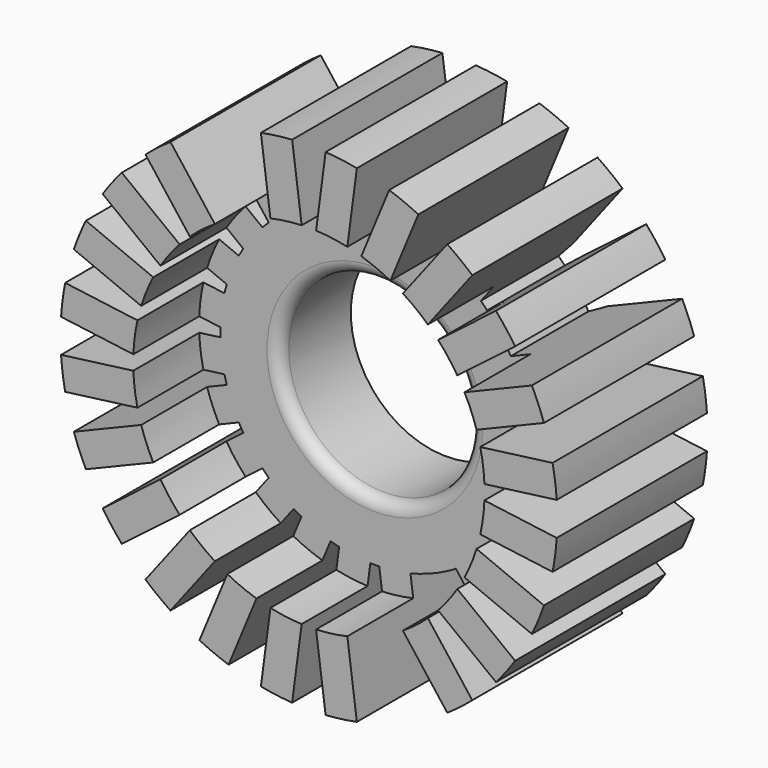
from build123d import *

# Parameters (mm, degrees)
F0_R      = 7.9
F1_DEPTH  = 15.5
F2_R      = 12.75
F3_DEPTH  = 6.8
F4_R      = 1
F7_R      = 14.5
F8_DEPTH  = 6.8
F10_DEPTH = 25


with BuildPart() as f1:
    # F0 (on Front) → F1 (new body)
    with BuildSketch(Plane.XZ):
        with BuildLine():
            ThreePointArc((12.7447268428, -0.3666574712), (12.7486816426, -0.1833476938), (12.75, 0))
            ThreePointArc((12.75, 0), (12.7486816426, 0.1833476938), (12.7447268428, 0.3666574712))
            ThreePointArc((12.7447268428, 0.3666574712), (12.6409219825, 1.6642089508), (12.4053587431, 2.9444141107))
            ThreePointArc((12.4053587431, 2.9444141107), (12.3155542852, 3.2999428251), (12.2155628699, 3.6527419524))
            ThreePointArc((12.2155628699, 3.6527419524), (11.7794640395, 4.8792137627), (11.2205859458, 6.0548287369))
            ThreePointArc((11.2205859458, 6.0548287369), (11.0418238983, 6.375), (10.8539284746, 6.689898106))
            ThreePointArc((10.8539284746, 6.689898106), (10.1152550887, 7.7617082199), (9.2711487592, 8.7526167907))
            ThreePointArc((9.2711487592, 8.7526167907), (9.0156114601, 9.0156114601), (8.7526167907, 9.2711487592))
            ThreePointArc((8.7526167907, 9.2711487592), (7.7617082199, 10.1152550887), (6.689898106, 10.8539284746))
            ThreePointArc((6.689898106, 10.8539284746), (6.375, 11.0418238983), (6.0548287369, 11.2205859458))
            ThreePointArc((6.0548287369, 11.2205859458), (4.8792137627, 11.7794640395), (3.6527419524, 12.2155628699))
            ThreePointArc((3.6527419524, 12.2155628699), (3.2999428251, 12.3155542852), (2.9444141107, 12.4053587431))
            ThreePointArc((2.9444141107, 12.4053587431), (1.6642089508, 12.6409219825), (0.3666574712, 12.7447268428))
            ThreePointArc((0.3666574712, 12.7447268428), (0, 12.75), (-0.3666574712, 12.7447268428))
            ThreePointArc((-0.3666574712, 12.7447268428), (-1.6642089508, 12.6409219825), (-2.9444141107, 12.4053587431))
            ThreePointArc((-2.9444141107, 12.4053587431), (-3.2999428251, 12.3155542852), (-3.6527419524, 12.2155628699))
            ThreePointArc((-3.6527419524, 12.2155628699), (-4.8792137627, 11.7794640395), (-6.0548287369, 11.2205859458))
            ThreePointArc((-6.0548287369, 11.2205859458), (-6.375, 11.0418238983), (-6.689898106, 10.8539284746))
            ThreePointArc((-6.689898106, 10.8539284746), (-7.7617082199, 10.1152550887), (-8.7526167907, 9.2711487592))
            ThreePointArc((-8.7526167907, 9.2711487592), (-9.0156114601, 9.0156114601), (-9.2711487592, 8.7526167907))
            ThreePointArc((-9.2711487592, 8.7526167907), (-10.1152550887, 7.7617082199), (-10.8539284746, 6.689898106))
            ThreePointArc((-10.8539284746, 6.689898106), (-11.0418238983, 6.375), (-11.2205859458, 6.0548287369))
            ThreePointArc((-11.2205859458, 6.0548287369), (-11.7794640395, 4.8792137627), (-12.2155628699, 3.6527419524))
            ThreePointArc((-12.2155628699, 3.6527419524), (-12.3155542852, 3.2999428251), (-12.4053587431, 2.9444141107))
            ThreePointArc((-12.4053587431, 2.9444141107), (-12.6409219825, 1.6642089508), (-12.7447268428, 0.3666574712))
            ThreePointArc((-12.7447268428, 0.3666574712), (-12.75, 0), (-12.7447268428, -0.3666574712))
            ThreePointArc((-12.7447268428, -0.3666574712), (-12.6409219825, -1.6642089508), (-12.4053587431, -2.9444141107))
            ThreePointArc((-12.4053587431, -2.9444141107), (-12.3155542852, -3.2999428251), (-12.2155628699, -3.6527419524))
            ThreePointArc((-12.2155628699, -3.6527419524), (-11.7794640395, -4.8792137627), (-11.2205859458, -6.0548287369))
            ThreePointArc((-11.2205859458, -6.0548287369), (-11.0418238983, -6.375), (-10.8539284746, -6.689898106))
            ThreePointArc((-10.8539284746, -6.689898106), (-10.1152550887, -7.7617082199), (-9.2711487592, -8.7526167907))
            ThreePointArc((-9.2711487592, -8.7526167907), (-9.0156114601, -9.0156114601), (-8.7526167907, -9.2711487592))
            ThreePointArc((-8.7526167907, -9.2711487592), (-7.7617082199, -10.1152550887), (-6.689898106, -10.8539284746))
            ThreePointArc((-6.689898106, -10.8539284746), (-6.375, -11.0418238983), (-6.0548287369, -11.2205859458))
            ThreePointArc((-6.0548287369, -11.2205859458), (-4.8792137627, -11.7794640395), (-3.6527419524, -12.2155628699))
            ThreePointArc((-3.6527419524, -12.2155628699), (-3.2999428251, -12.3155542852), (-2.9444141107, -12.4053587431))
            ThreePointArc((-2.9444141107, -12.4053587431), (-1.6642089508, -12.6409219825), (-0.3666574712, -12.7447268428))
            ThreePointArc((-0.3666574712, -12.7447268428), (0, -12.75), (0.3666574712, -12.7447268428))
            ThreePointArc((0.3666574712, -12.7447268428), (1.6642089508, -12.6409219825), (2.9444141107, -12.4053587431))
            ThreePointArc((2.9444141107, -12.4053587431), (3.2999428251, -12.3155542852), (3.6527419524, -12.2155628699))
            ThreePointArc((3.6527419524, -12.2155628699), (4.8792137627, -11.7794640395), (6.0548287369, -11.2205859458))
            ThreePointArc((6.0548287369, -11.2205859458), (6.375, -11.0418238983), (6.689898106, -10.8539284746))
            ThreePointArc((6.689898106, -10.8539284746), (7.7617082199, -10.1152550887), (8.7526167907, -9.2711487592))
            ThreePointArc((8.7526167907, -9.2711487592), (9.0156114601, -9.0156114601), (9.2711487592, -8.7526167907))
            ThreePointArc((9.2711487592, -8.7526167907), (10.1152550887, -7.7617082199), (10.8539284746, -6.689898106))
            ThreePointArc((10.8539284746, -6.689898106), (11.0418238983, -6.375), (11.2205859458, -6.0548287369))
            ThreePointArc((11.2205859458, -6.0548287369), (11.7794640395, -4.8792137627), (12.2155628699, -3.6527419524))
            ThreePointArc((12.2155628699, -3.6527419524), (12.3155542852, -3.2999428251), (12.4053587431, -2.9444141107))
            ThreePointArc((12.4053587431, -2.9444141107), (12.6409219825, -1.6642089508), (12.7447268428, -0.3666574712))
        make_face()
        Circle(F0_R, mode=Mode.SUBTRACT)
        with BuildLine():
            ThreePointArc((12.4053587431, 2.9444141107), (12.6409219825, 1.6642089508), (12.7447268428, 0.3666574712))
            Line((12.7447268428, 0.3666574712), (20.453395666, 1.3815229748))
            ThreePointArc((20.453395666, 1.3815229748), (20.3246196582, 2.6757869405), (20.1140275662, 3.9592796144))
            Line((20.1140275662, 3.9592796144), (12.4053587431, 2.9444141107))
        make_face()
        with BuildLine():
            Line((20.453395666, -1.3815229748), (12.7447268428, -0.3666574712))
            ThreePointArc((12.7447268428, -0.3666574712), (12.6409219825, -1.6642089508), (12.4053587431, -2.9444141107))
            Line((12.4053587431, -2.9444141107), (20.1140275662, -3.9592796144))
            ThreePointArc((20.1140275662, -3.9592796144), (20.3246196582, -2.6757869405), (20.453395666, -1.3815229748))
        make_face()
        with BuildLine():
            ThreePointArc((11.2205859458, 6.0548287369), (11.7794640395, 4.8792137627), (12.2155628699, 3.6527419524))
            Line((12.2155628699, 3.6527419524), (19.398898652, 6.6281770564))
            ThreePointArc((19.398898652, 6.6281770564), (18.9395304165, 7.8450103635), (18.4039217278, 9.0302638409))
            Line((18.4039217278, 9.0302638409), (11.2205859458, 6.0548287369))
        make_face()
        with BuildLine():
            Line((19.398898652, -6.6281770564), (12.2155628699, -3.6527419524))
            ThreePointArc((12.2155628699, -3.6527419524), (11.7794640395, -4.8792137627), (11.2205859458, -6.0548287369))
            Line((11.2205859458, -6.0548287369), (18.4039217278, -9.0302638409))
            ThreePointArc((18.4039217278, -9.0302638409), (18.9395304165, -7.8450103635), (19.398898652, -6.6281770564))
        make_face()
        with BuildLine():
            ThreePointArc((9.2711487592, 8.7526167907), (10.1152550887, 7.7617082199), (10.8539284746, 6.689898106))
            Line((10.8539284746, 6.689898106), (17.022398753, 11.4231318251))
            ThreePointArc((17.022398753, 11.4231318251), (16.263743476, 12.4796092947), (15.4396190376, 13.4858505099))
            Line((15.4396190376, 13.4858505099), (9.2711487592, 8.7526167907))
        make_face()
        with BuildLine():
            Line((17.022398753, -11.4231318251), (10.8539284746, -6.689898106))
            ThreePointArc((10.8539284746, -6.689898106), (10.1152550887, -7.7617082199), (9.2711487592, -8.7526167907))
            Line((9.2711487592, -8.7526167907), (15.4396190376, -13.4858505099))
            ThreePointArc((15.4396190376, -13.4858505099), (16.263743476, -12.4796092947), (17.022398753, -11.4231318251))
        make_face()
        with BuildLine():
            ThreePointArc((6.689898106, 10.8539284746), (7.7617082199, 10.1152550887), (8.7526167907, 9.2711487592))
            Line((8.7526167907, 9.2711487592), (13.4858505099, 15.4396190376))
            ThreePointArc((13.4858505099, 15.4396190376), (12.4796092947, 16.263743476), (11.4231318251, 17.022398753))
            Line((11.4231318251, 17.022398753), (6.689898106, 10.8539284746))
        make_face()
        with BuildLine():
            Line((13.4858505099, -15.4396190376), (8.7526167907, -9.2711487592))
            ThreePointArc((8.7526167907, -9.2711487592), (7.7617082199, -10.1152550887), (6.689898106, -10.8539284746))
            Line((6.689898106, -10.8539284746), (11.4231318251, -17.022398753))
            ThreePointArc((11.4231318251, -17.022398753), (12.4796092947, -16.263743476), (13.4858505099, -15.4396190376))
        make_face()
        with BuildLine():
            ThreePointArc((3.6527419524, 12.2155628699), (4.8792137627, 11.7794640395), (6.0548287369, 11.2205859458))
            Line((6.0548287369, 11.2205859458), (9.0302638409, 18.4039217278))
            ThreePointArc((9.0302638409, 18.4039217278), (7.8450103635, 18.9395304165), (6.6281770564, 19.398898652))
            Line((6.6281770564, 19.398898652), (3.6527419524, 12.2155628699))
        make_face()
        with BuildLine():
            Line((9.0302638409, -18.4039217278), (6.0548287369, -11.2205859458))
            ThreePointArc((6.0548287369, -11.2205859458), (4.8792137627, -11.7794640395), (3.6527419524, -12.2155628699))
            Line((3.6527419524, -12.2155628699), (6.6281770564, -19.398898652))
            ThreePointArc((6.6281770564, -19.398898652), (7.8450103635, -18.9395304165), (9.0302638409, -18.4039217278))
        make_face()
        with BuildLine():
            ThreePointArc((0.3666574712, 12.7447268428), (1.6642089508, 12.6409219825), (2.9444141107, 12.4053587431))
            Line((2.9444141107, 12.4053587431), (3.9592796144, 20.1140275662))
            ThreePointArc((3.9592796144, 20.1140275662), (2.6757869405, 20.3246196582), (1.3815229748, 20.453395666))
            Line((1.3815229748, 20.453395666), (0.3666574712, 12.7447268428))
        make_face()
        with BuildLine():
            Line((3.9592796144, -20.1140275662), (2.9444141107, -12.4053587431))
            ThreePointArc((2.9444141107, -12.4053587431), (1.6642089508, -12.6409219825), (0.3666574712, -12.7447268428))
            Line((0.3666574712, -12.7447268428), (1.3815229748, -20.453395666))
            ThreePointArc((1.3815229748, -20.453395666), (2.6757869405, -20.3246196582), (3.9592796144, -20.1140275662))
        make_face()
        with BuildLine():
            ThreePointArc((-2.9444141107, 12.4053587431), (-1.6642089508, 12.6409219825), (-0.3666574712, 12.7447268428))
            Line((-0.3666574712, 12.7447268428), (-1.3815229748, 20.453395666))
            ThreePointArc((-1.3815229748, 20.453395666), (-2.6757869405, 20.3246196582), (-3.9592796144, 20.1140275662))
            Line((-3.9592796144, 20.1140275662), (-2.9444141107, 12.4053587431))
        make_face()
        with BuildLine():
            Line((-1.3815229748, -20.453395666), (-0.3666574712, -12.7447268428))
            ThreePointArc((-0.3666574712, -12.7447268428), (-1.6642089508, -12.6409219825), (-2.9444141107, -12.4053587431))
            Line((-2.9444141107, -12.4053587431), (-3.9592796144, -20.1140275662))
            ThreePointArc((-3.9592796144, -20.1140275662), (-2.6757869405, -20.3246196582), (-1.3815229748, -20.453395666))
        make_face()
        with BuildLine():
            ThreePointArc((-6.0548287369, 11.2205859458), (-4.8792137627, 11.7794640395), (-3.6527419524, 12.2155628699))
            Line((-3.6527419524, 12.2155628699), (-6.6281770564, 19.398898652))
            ThreePointArc((-6.6281770564, 19.398898652), (-7.8450103635, 18.9395304165), (-9.0302638409, 18.4039217278))
            Line((-9.0302638409, 18.4039217278), (-6.0548287369, 11.2205859458))
        make_face()
        with BuildLine():
            Line((-6.6281770564, -19.398898652), (-3.6527419524, -12.2155628699))
            ThreePointArc((-3.6527419524, -12.2155628699), (-4.8792137627, -11.7794640395), (-6.0548287369, -11.2205859458))
            Line((-6.0548287369, -11.2205859458), (-9.0302638409, -18.4039217278))
            ThreePointArc((-9.0302638409, -18.4039217278), (-7.8450103635, -18.9395304165), (-6.6281770564, -19.398898652))
        make_face()
        with BuildLine():
            ThreePointArc((-8.7526167907, 9.2711487592), (-7.7617082199, 10.1152550887), (-6.689898106, 10.8539284746))
            Line((-6.689898106, 10.8539284746), (-11.4231318251, 17.022398753))
            ThreePointArc((-11.4231318251, 17.022398753), (-12.4796092947, 16.263743476), (-13.4858505099, 15.4396190376))
            Line((-13.4858505099, 15.4396190376), (-8.7526167907, 9.2711487592))
        make_face()
        with BuildLine():
            Line((-11.4231318251, -17.022398753), (-6.689898106, -10.8539284746))
            ThreePointArc((-6.689898106, -10.8539284746), (-7.7617082199, -10.1152550887), (-8.7526167907, -9.2711487592))
            Line((-8.7526167907, -9.2711487592), (-13.4858505099, -15.4396190376))
            ThreePointArc((-13.4858505099, -15.4396190376), (-12.4796092947, -16.263743476), (-11.4231318251, -17.022398753))
        make_face()
        with BuildLine():
            ThreePointArc((-10.8539284746, 6.689898106), (-10.1152550887, 7.7617082199), (-9.2711487592, 8.7526167907))
            Line((-9.2711487592, 8.7526167907), (-15.4396190376, 13.4858505099))
            ThreePointArc((-15.4396190376, 13.4858505099), (-16.263743476, 12.4796092947), (-17.022398753, 11.4231318251))
            Line((-17.022398753, 11.4231318251), (-10.8539284746, 6.689898106))
        make_face()
        with BuildLine():
            Line((-15.4396190376, -13.4858505099), (-9.2711487592, -8.7526167907))
            ThreePointArc((-9.2711487592, -8.7526167907), (-10.1152550887, -7.7617082199), (-10.8539284746, -6.689898106))
            Line((-10.8539284746, -6.689898106), (-17.022398753, -11.4231318251))
            ThreePointArc((-17.022398753, -11.4231318251), (-16.263743476, -12.4796092947), (-15.4396190376, -13.4858505099))
        make_face()
        with BuildLine():
            ThreePointArc((-12.2155628699, 3.6527419524), (-11.7794640395, 4.8792137627), (-11.2205859458, 6.0548287369))
            Line((-11.2205859458, 6.0548287369), (-18.4039217278, 9.0302638409))
            ThreePointArc((-18.4039217278, 9.0302638409), (-18.9395304165, 7.8450103635), (-19.398898652, 6.6281770564))
            Line((-19.398898652, 6.6281770564), (-12.2155628699, 3.6527419524))
        make_face()
        with BuildLine():
            Line((-18.4039217278, -9.0302638409), (-11.2205859458, -6.0548287369))
            ThreePointArc((-11.2205859458, -6.0548287369), (-11.7794640395, -4.8792137627), (-12.2155628699, -3.6527419524))
            Line((-12.2155628699, -3.6527419524), (-19.398898652, -6.6281770564))
            ThreePointArc((-19.398898652, -6.6281770564), (-18.9395304165, -7.8450103635), (-18.4039217278, -9.0302638409))
        make_face()
        with BuildLine():
            ThreePointArc((-12.7447268428, 0.3666574712), (-12.6409219825, 1.6642089508), (-12.4053587431, 2.9444141107))
            Line((-12.4053587431, 2.9444141107), (-20.1140275662, 3.9592796144))
            ThreePointArc((-20.1140275662, 3.9592796144), (-20.3246196582, 2.6757869405), (-20.453395666, 1.3815229748))
            Line((-20.453395666, 1.3815229748), (-12.7447268428, 0.3666574712))
        make_face()
        with BuildLine():
            Line((-20.1140275662, -3.9592796144), (-12.4053587431, -2.9444141107))
            ThreePointArc((-12.4053587431, -2.9444141107), (-12.6409219825, -1.6642089508), (-12.7447268428, -0.3666574712))
            Line((-12.7447268428, -0.3666574712), (-20.453395666, -1.3815229748))
            ThreePointArc((-20.453395666, -1.3815229748), (-20.3246196582, -2.6757869405), (-20.1140275662, -3.9592796144))
        make_face()
    extrude(amount=F1_DEPTH)

    # F2 (on face) → F3 (cut)
    with BuildSketch(Plane.XZ.offset(15.5)):
        Circle(F2_R)
    extrude(amount=-F3_DEPTH, mode=Mode.SUBTRACT)

    # F4
    f4_edges = [f1.edges().sort_by_distance(p)[0] for p in [
        (-7.9, -8.7, 0),
    ]]
    fillet(f4_edges, radius=F4_R)

    # F5 (on Right) → F6 (revolve, cut)
    with BuildSketch(Plane.YZ):
        with BuildLine():
            Line((0, -13.8384428315), (0, 0))
            Line((0, 0), (-1.3, 0))
            Line((-1.3, 0), (-1.3, -10.1088315917))
            ThreePointArc((-1.3, -10.1088315917), (-0.9656861897, -12.0836733575), (0, -13.8384428315))
        make_face()
    revolve(axis=Axis((0, -0.65, 0), (0, -1, 0)), mode=Mode.SUBTRACT)

    # F7 (on face) → F8 (cut, through all)
    with BuildSketch(Plane.XZ.offset(15.5)):
        Circle(F7_R)
    extrude(amount=-F8_DEPTH, mode=Mode.SUBTRACT)

    # F9 (on face) → F10 (cut)
    with BuildSketch(Plane.XZ.offset(15.5)):
        with BuildLine():
            Line((-3.6527419524, 12.2155628699), (-4.3255201745, 13.8397931784))
            Line((-4.3255201745, 13.8397931784), (-6.6281770564, 19.398898652))
            ThreePointArc((-6.6281770564, 19.398898652), (-7.8450103635, 18.9395304165), (-9.0302638409, 18.4039217278))
            Line((-9.0302638409, 18.4039217278), (-6.7276069591, 12.8448162542))
            Line((-6.7276069591, 12.8448162542), (-6.0548287369, 11.2205859458))
            ThreePointArc((-6.0548287369, 11.2205859458), (-4.8792137627, 11.7794640395), (-3.6527419524, 12.2155628699))
        make_face()
        with BuildLine():
            Line((3.6527419524, -12.2155628699), (4.3255201745, -13.8397931784))
            Line((4.3255201745, -13.8397931784), (6.6281770564, -19.398898652))
            ThreePointArc((6.6281770564, -19.398898652), (7.8450103635, -18.9395304165), (9.0302638409, -18.4039217278))
            Line((9.0302638409, -18.4039217278), (6.7276069591, -12.8448162542))
            Line((6.7276069591, -12.8448162542), (6.0548287369, -11.2205859458))
            ThreePointArc((6.0548287369, -11.2205859458), (4.8792137627, -11.7794640395), (3.6527419524, -12.2155628699))
        make_face()
    extrude(amount=-F10_DEPTH, mode=Mode.SUBTRACT)


solid = f1.part
